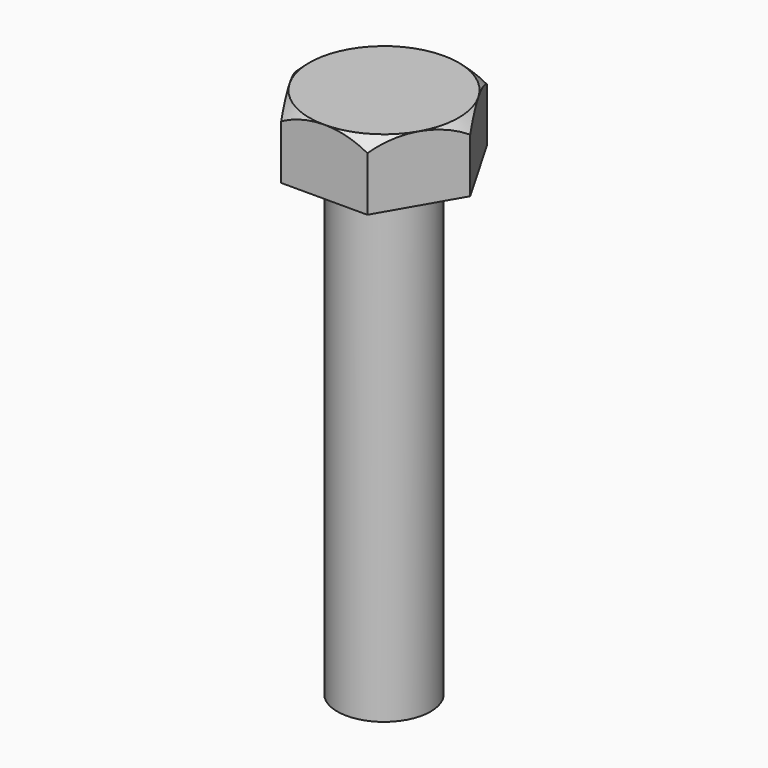
from build123d import *

# Parameters (mm, degrees)
F2_DEPTH = 11.2
F3_R     = 8
F4_DEPTH = 80


with BuildPart() as f2:
    # F1 (on Top) → F2 (new body)
    with BuildSketch(Plane.XY):
        Polygon((7.3900834456, 12.8), (-7.3900834456, 12.8), (-14.7801668913, 0), (-7.3900834456, -12.8), (7.3900834456, -12.8), (14.7801668913, 0), align=None)
    extrude(amount=F2_DEPTH)

    # F3 (on Top) → F4 (join)
    with BuildSketch(Plane.XY):
        Circle(F3_R)
    extrude(amount=-F4_DEPTH)

    # F5 (on Right) → F6 (revolve, cut)
    with BuildSketch(Plane.YZ):
        with BuildLine():
            Line((30, 0), (30, 20))
            Line((30, 20), (0, 20))
            Line((0, 20), (0, 15.8325018302))
            ThreePointArc((0, 15.8325018302), (12.5827269819, 11.3784010225), (19.5609805226, 0))
            Line((19.5609805226, 0), (30, 0))
        make_face()
    revolve(axis=Axis((0, 0, 17.9162509151), (0, 0, -1)), mode=Mode.SUBTRACT)


solid = f2.part
